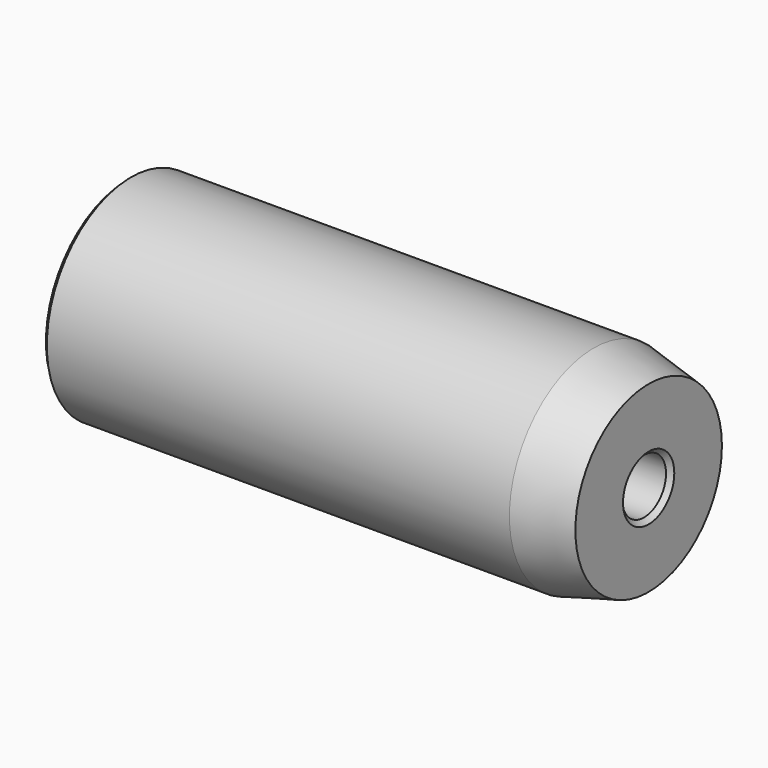
from build123d import *

# Parameters (mm, degrees)
F0_R     = 36.5125
F1_DEPTH = 180.975
F2_R     = 6.5484375
F3_DEPTH = 180.976
F4_R     = 9.525
F5_DEPTH = 14.2875
F6_R     = 12.7635
F7_DEPTH = 25.4
F8_SIZE  = 1.5875
F9_SIZE2 = 19.05
F9_SIZE  = 4.7625


with BuildPart() as f1:
    # F0 (on Right) → F1 (new body)
    with BuildSketch(Plane.YZ):
        Circle(F0_R)
    extrude(amount=-F1_DEPTH)

    # F2 (on face) → F3 (cut, through all)
    with BuildSketch(Plane.YZ):
        Circle(F2_R)
    extrude(amount=-F3_DEPTH, mode=Mode.SUBTRACT)

    # F4 (on face) → F5 (cut)
    with BuildSketch(Plane.YZ):
        Circle(F4_R)
    extrude(amount=-F5_DEPTH, mode=Mode.SUBTRACT)

    # F6 (on face) → F7 (cut)
    with BuildSketch(Plane(origin=(-180.975, 0, 0), x_dir=(0, -1, 0), z_dir=(-1, 0, 0))):
        Circle(F6_R)
    extrude(amount=-F7_DEPTH, mode=Mode.SUBTRACT)

    # F8
    f8_edges = [f1.edges().sort_by_distance(p)[0] for p in [
        (0, -9.525, 0),
        (-180.975, -36.5125, 0),
        (-180.975, 12.7635, 0),
    ]]
    chamfer(f8_edges, length=F8_SIZE)

    # F9
    f9_edges = [f1.edges().sort_by_distance(p)[0] for p in [
        (0, -36.5125, 0),
    ]]
    f9_side = f1.faces().sort_by_distance((0, -12.145229, 0))[0]
    chamfer(f9_edges, length=F9_SIZE, length2=F9_SIZE2, reference=f9_side)


solid = f1.part
